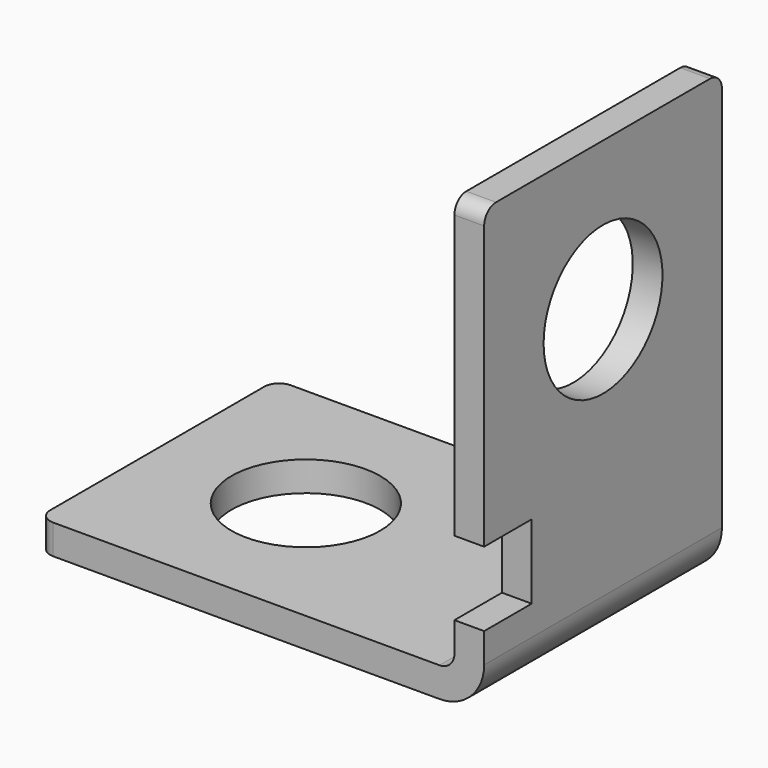
from build123d import *

# Parameters (mm, degrees)
F1_DEPTH = 20
F2_W     = 19.805975
F2_H     = 5
F3_DEPTH = 2.001
F4_R     = 5
F5_DEPTH = 2.001
F6_R     = 5
F7_DEPTH = 2.001
F8_R     = 1


with BuildPart() as f1:
    # F0 (on Front) → F1 (new body)
    with BuildSketch(Plane.XZ):
        with BuildLine():
            Line((-30, 2), (-30, 0))
            Line((-30, 0), (-3, 0))
            ThreePointArc((-3, 0), (-0.87868, 0.87868), (0, 3))
            Line((0, 3), (0, 30))
            Line((0, 30), (-2, 30))
            Line((-2, 30), (-2, 3))
            ThreePointArc((-2, 3), (-2.292893, 2.292893), (-3, 2))
            Line((-3, 2), (-30, 2))
        make_face()
    extrude(amount=-F1_DEPTH)

    # F2 (on face) → F3 (cut, through all)
    with BuildSketch(Plane(origin=(-2, 0, 0), x_dir=(0, -1, 0), z_dir=(-1, 0, 0))):
        with Locations((5.902988, 7.5)):
            Rectangle(F2_W, F2_H)
    extrude(amount=-F3_DEPTH, mode=Mode.SUBTRACT)

    # F4 (on face) → F5 (cut, through all)
    with BuildSketch(Plane.XY.offset(2)):
        with Locations((-20, 10)):
            Circle(F4_R)
    extrude(amount=-F5_DEPTH, mode=Mode.SUBTRACT)

    # F6 (on face) → F7 (cut, through all)
    with BuildSketch(Plane(origin=(-2, 0, 0), x_dir=(0, -1, 0), z_dir=(-1, 0, 0))):
        with Locations((-10, 20)):
            Circle(F6_R)
    extrude(amount=-F7_DEPTH, mode=Mode.SUBTRACT)

    # F8
    f8_edges = [f1.edges().sort_by_distance(p)[0] for p in [
        (-30, 20, 1),
        (-30, 0, 1),
        (-1, 0, 30),
        (-1, 20, 30),
    ]]
    fillet(f8_edges, radius=F8_R)


solid = f1.part
